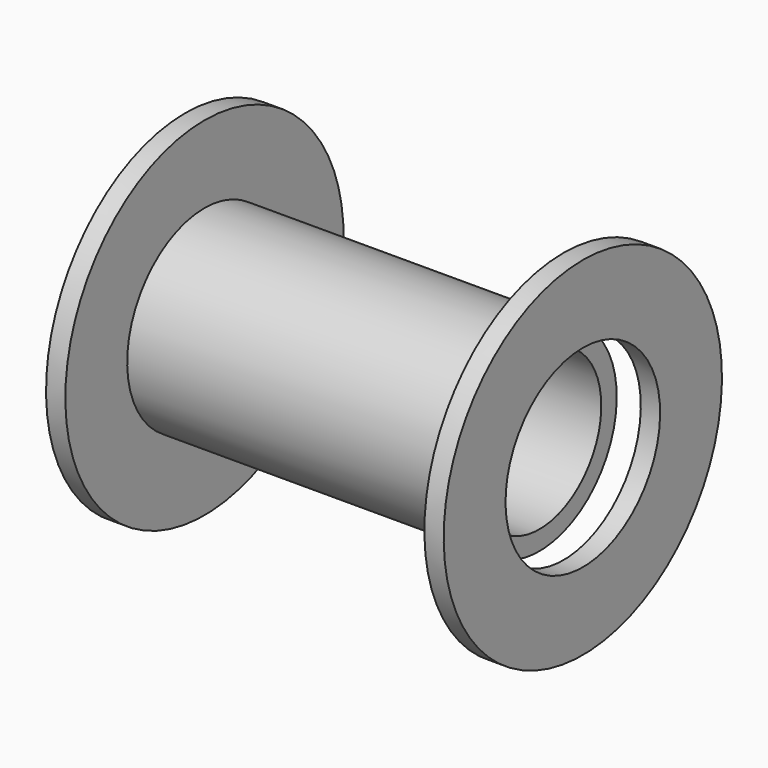
from build123d import *

# Parameters (mm, degrees)
F0_W = 1.5
F0_H = 6


with BuildPart() as f1:
    # F0 (on Front) → F1 (revolve)
    with BuildSketch(Plane.XZ):
        Polygon((-12.938864, 6), (14.561136, 6), (14.561136, 7.5), (-11.438864, 7.5), (-11.438864, 13.5), (-12.938864, 13.5), align=None)
        with Locations((17.179234, 10.5)):
            Rectangle(F0_W, F0_H)
    revolve(axis=Axis((-1.378866, 0, 0), (1, 0, 0)))


solid = f1.part
